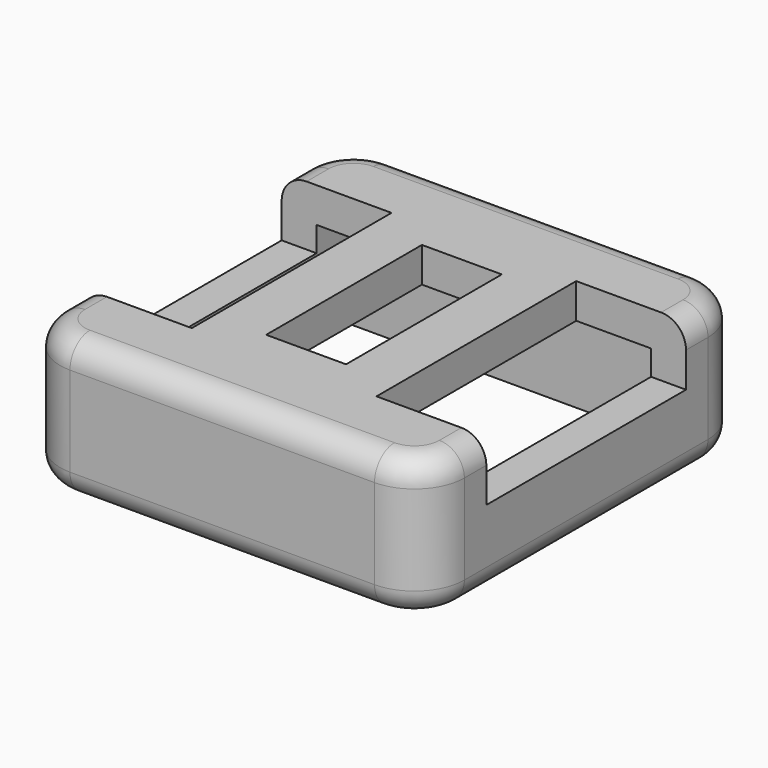
from build123d import *

# Parameters (mm, degrees)
F0_W      = 20.574
F0_H      = 20.574
F1_DEPTH  = 7.112
F2_W      = 17.018
F2_H      = 17.018
F3_DEPTH  = 5.334
F4_R      = 2.54
F5_W      = 5.588
F5_H      = 12.7
F6_DEPTH  = 3.048
F7_W      = 11.176
F7_H      = 12.7
F8_DEPTH  = 3.048
F9_W      = 4.064
F9_H      = 9.906
F10_DEPTH = 1.778
F11_R     = 1.27
F12_R     = 1.27


with BuildPart() as f1:
    # F0 (on Top) → F1 (new body)
    with BuildSketch(Plane.XY):
        Rectangle(F0_W, F0_H)
    extrude(amount=F1_DEPTH)

    # F2 (on face) → F3 (cut)
    with BuildSketch(Plane(origin=(0, 0, 0), x_dir=(1, 0, 0), z_dir=(0, 0, -1))):
        Rectangle(F2_W, F2_H)
    extrude(amount=-F3_DEPTH, mode=Mode.SUBTRACT)

    # F4
    f4_edges = [f1.edges().sort_by_distance(p)[0] for p in [
        (-10.287, -10.287, 3.556),
        (10.287, 10.287, 3.556),
        (10.287, -10.287, 3.556),
        (-10.287, 10.287, 3.556),
    ]]
    fillet(f4_edges, radius=F4_R)

    # F5 (on face) → F6 (cut)
    with BuildSketch(Plane.XY.offset(7.112)):
        with Locations((-7.493, 0)):
            Rectangle(F5_W, F5_H)
    extrude(amount=-F6_DEPTH, mode=Mode.SUBTRACT)

    # F7 (on face) → F8 (cut)
    with BuildSketch(Plane.XY.offset(7.112)):
        with Locations((10.287, 0)):
            Rectangle(F7_W, F7_H)
    extrude(amount=-F8_DEPTH, mode=Mode.SUBTRACT)

    # F9 (on face) → F10 (cut)
    with BuildSketch(Plane.XY.offset(7.112)):
        Rectangle(F9_W, F9_H)
    extrude(amount=-F10_DEPTH, mode=Mode.SUBTRACT)

    # F11
    f11_edges = [f1.edges().sort_by_distance(p)[0] for p in [
        (0, 10.287, 7.112),
        (0, -10.287, 7.112),
    ]]
    fillet(f11_edges, radius=F11_R)

    # F12
    f12_edges = [f1.edges().sort_by_distance(p)[0] for p in [
        (-10.287, 0, 0),
        (0, 10.287, 0),
        (-9.543051, 9.543051, 0),
    ]]
    fillet(f12_edges, radius=F12_R)


solid = f1.part
